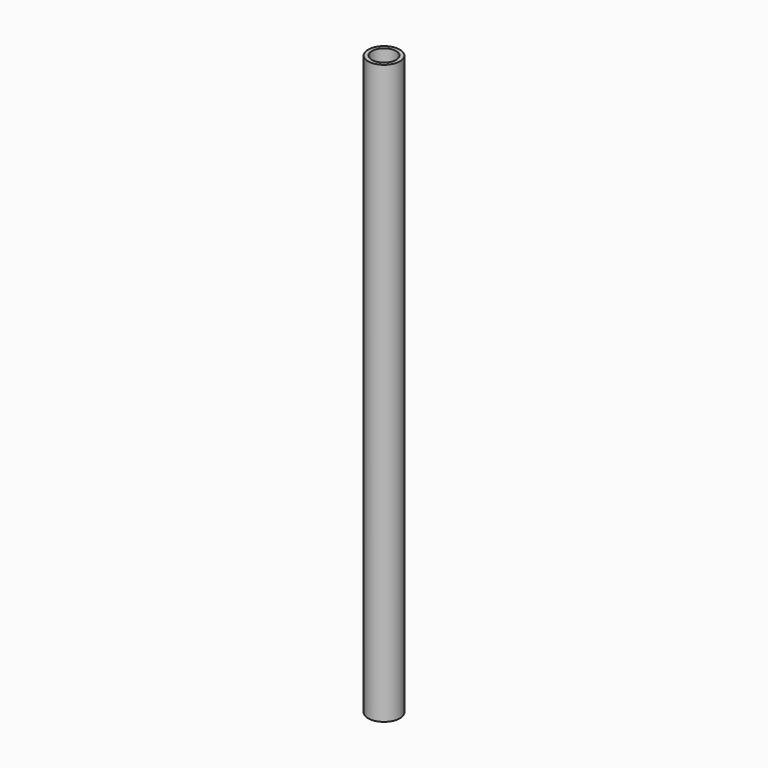
from build123d import *

# Parameters (mm, degrees)
F0_W     = 4
F0_H     = 609.6
F2_R     = 9
F3_DEPTH = 16.751


with BuildPart() as f1:
    # F0 (on Right) → F1 (revolve)
    with BuildSketch(Plane.YZ):
        with Locations((14.721642, 13.90418)):
            Rectangle(F0_W, F0_H)
    revolve(axis=Axis((0, -0.028358, 13.90418), (0, 0, -1)))

    # F2 (on Right) → F3 (cut, through all)
    with BuildSketch(Plane.YZ):
        with Locations((0, 100)):
            Circle(F2_R)
        with Locations((0, -255)):
            Circle(F2_R)
    extrude(amount=-F3_DEPTH, mode=Mode.SUBTRACT)


solid = f1.part
